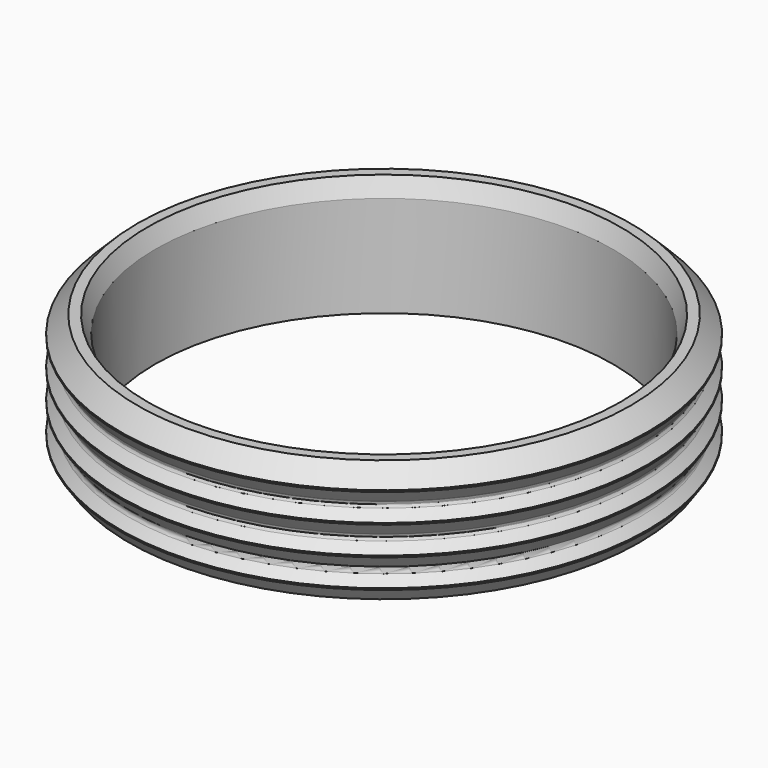
from build123d import *


with BuildPart() as f1:
    # F0 (on Front) → F1 (revolve)
    with BuildSketch(Plane.XZ):
        with BuildLine():
            Line((211.5439, 93.490879), (211.5439, 0))
            Line((211.5439, 0), (235.839, 0))
            Line((235.839, 0), (244.0559, 11.734949))
            Line((244.0559, 11.734949), (244.0559, 13.258949))
            Line((244.0559, 13.258949), (236.314174, 21.000675))
            ThreePointArc((236.314174, 21.000675), (235.065893, 23.677624), (235.830363, 26.530665))
            Line((235.830363, 26.530665), (244.0559, 38.277949))
            Line((244.0559, 38.277949), (244.0559, 39.801949))
            Line((244.0559, 39.801949), (236.293253, 47.564596))
            ThreePointArc((236.293253, 47.564596), (235.416854, 48.828277), (235.0389, 50.318952))
            ThreePointArc((235.0389, 50.318952), (235.02854, 50.617883), (235.0389, 50.916814))
            ThreePointArc((235.0389, 50.916814), (235.275833, 52.058185), (235.809442, 53.094586))
            Line((235.809442, 53.094586), (244.0559, 64.871749))
            Line((244.0559, 64.871749), (244.0559, 66.395749))
            Line((244.0559, 66.395749), (236.441814, 74.009835))
            ThreePointArc((236.441814, 74.009835), (236.289641, 74.154784), (236.144692, 74.306957))
            ThreePointArc((236.144692, 74.306957), (235.382934, 75.48568), (235.0389, 76.846306))
            ThreePointArc((235.0389, 76.846306), (235.023432, 77.211683), (235.0389, 77.57706))
            ThreePointArc((235.0389, 77.57706), (235.247585, 78.585668), (235.688935, 79.516285))
            ThreePointArc((235.688935, 79.516285), (235.805257, 79.691316), (235.929948, 79.860488))
            Line((235.929948, 79.860488), (244.0559, 91.465549))
            Line((244.0559, 91.465549), (244.0559, 92.989549))
            Line((244.0559, 92.989549), (244.0559, 93.016376))
            Line((244.0559, 93.016376), (228.030076, 109.0422))
            Line((228.030076, 109.0422), (218.7956, 109.0422))
            Line((218.7956, 109.0422), (211.5439, 93.490879))
        make_face()
        with BuildLine():
            Line((235.688935, 79.516285), (235.929948, 79.860488))
            ThreePointArc((235.929948, 79.860488), (235.805257, 79.691316), (235.688935, 79.516285))
        make_face()
        with BuildLine():
            Line((235.0389, 76.846306), (235.0389, 77.57706))
            ThreePointArc((235.0389, 77.57706), (235.023432, 77.211683), (235.0389, 76.846306))
        make_face()
        with BuildLine():
            ThreePointArc((235.0389, 50.916814), (235.02854, 50.617883), (235.0389, 50.318952))
            Line((235.0389, 50.318952), (235.0389, 50.916814))
        make_face()
        with BuildLine():
            Line((236.441814, 74.009835), (236.144692, 74.306957))
            ThreePointArc((236.144692, 74.306957), (236.289641, 74.154784), (236.441814, 74.009835))
        make_face()
    revolve(axis=Axis((0, 0, 14.165604), (0, 0, 1)))


solid = f1.part
